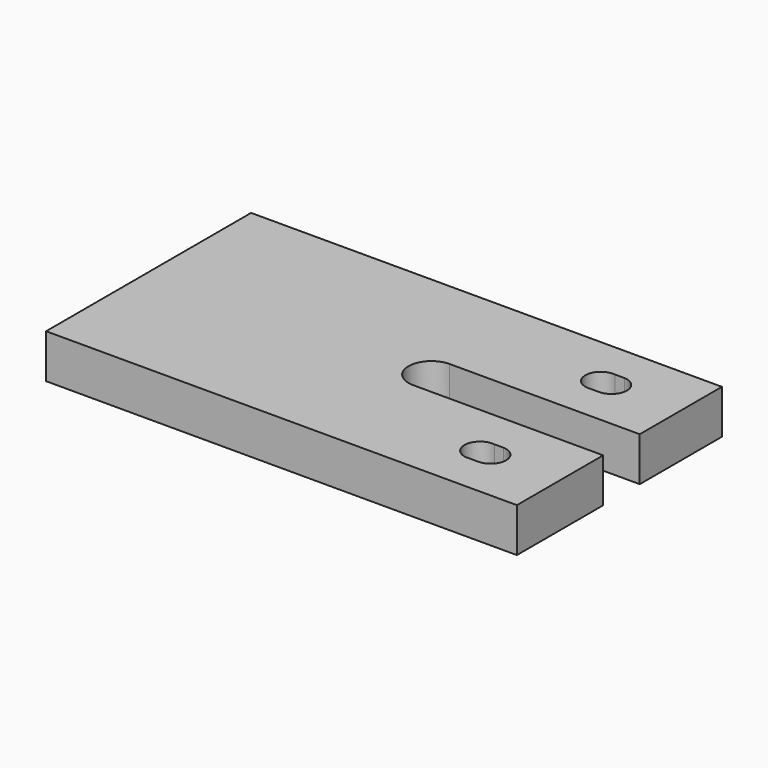
from build123d import *

# Parameters (mm, degrees)
F1_DEPTH = 2.57


with BuildPart() as f1:
    # F0 (on Top) → F1 (new body)
    with BuildSketch(Plane.XY):
        with BuildLine():
            Line((10.624999, 14.97), (-16.875001, 14.97))
            Line((-16.875001, 14.97), (-16.875001, 0))
            Line((-16.875001, 0), (10.624999, 0))
            Line((10.624999, 0), (10.624999, 6.3))
            Line((10.624999, 6.3), (-0.475001, 6.3))
            ThreePointArc((-0.475001, 6.3), (-1.810001, 7.635), (-0.475001, 8.97))
            Line((-0.475001, 8.97), (10.624999, 8.97))
            Line((10.624999, 8.97), (10.624999, 14.97))
        make_face()
        with BuildLine():
            ThreePointArc((6.072254, 2.25), (5.047393, 3.15), (6.072254, 4.05))
            Line((6.072254, 4.05), (6.60375, 4.05))
            ThreePointArc((6.60375, 4.05), (7.475458, 3.15), (6.60375, 2.25))
            Line((6.60375, 2.25), (6.072254, 2.25))
        make_face(mode=Mode.SUBTRACT)
        with BuildLine():
            Line((6.60375, 11.07), (6.072254, 11.07))
            ThreePointArc((6.072254, 11.07), (5.047393, 11.97), (6.072254, 12.87))
            Line((6.072254, 12.87), (6.60375, 12.87))
            ThreePointArc((6.60375, 12.87), (7.475458, 11.97), (6.60375, 11.07))
        make_face(mode=Mode.SUBTRACT)
    extrude(amount=F1_DEPTH)


solid = f1.part
